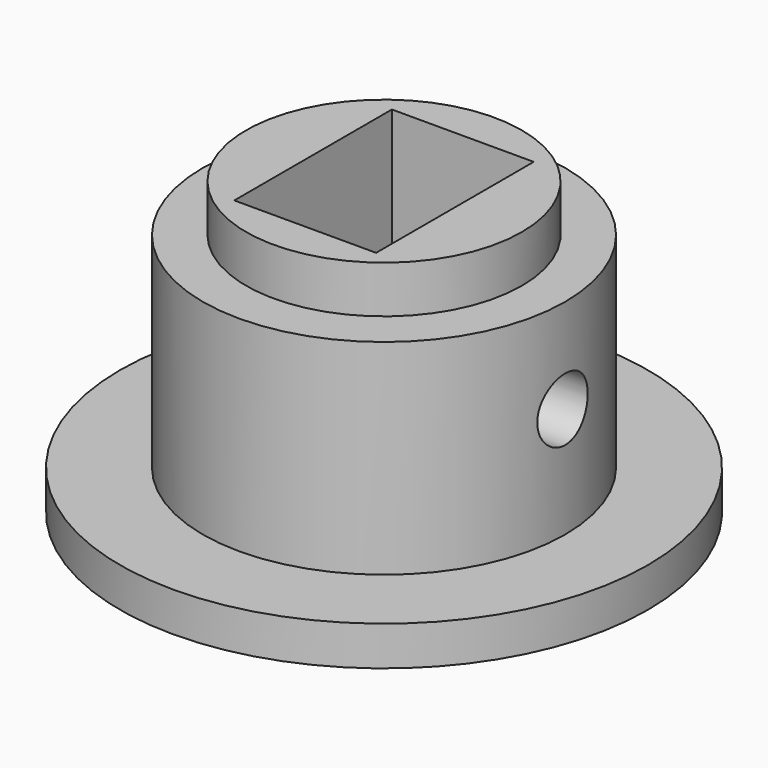
from build123d import *

# Parameters (mm, degrees)
F2_W          = 9
F2_H          = 12.5
F3_DEPTH      = 18.5
F4_W          = 4
F4_H          = 4
F5_DEPTH      = 2.5
F6_R          = 2
F7_DEPTH      = 16.751
F7_DEPTH_BACK = 16.751


with BuildPart() as f1:
    # F0 (on Front) → F1 (revolve)
    with BuildSketch(Plane.XZ):
        Polygon((0, 18.5), (0, 0), (16.75, 0), (16.75, 2.5), (11.5, 2.5), (11.5, 15.5), (8.75, 15.5), (8.75, 18.5), align=None)
    revolve(axis=Axis((0, 0, 44.9704285987), (0, 0, 1)))

    # F2 (on face) → F3 (cut, through all)
    with BuildSketch(Plane.XY.offset(18.5)):
        Rectangle(F2_W, F2_H)
    extrude(amount=-F3_DEPTH, mode=Mode.SUBTRACT)

    # F4 (on face) → F5 (join)
    with BuildSketch(Plane(origin=(0, 0, 0), x_dir=(1, 0, 0), z_dir=(0, 0, -1))):
        with Locations((1.5, 8.75)):
            Rectangle(F4_W, F4_H)
    extrude(amount=F5_DEPTH)

    # F6 (on Right) → F7 (cut, two sides)
    with BuildSketch(Plane.YZ) as f7_sk:
        with Locations((0, 9.5)):
            Circle(F6_R)
    extrude(amount=-F7_DEPTH, mode=Mode.SUBTRACT)
    extrude(f7_sk.sketch, amount=F7_DEPTH_BACK, mode=Mode.SUBTRACT)


solid = f1.part
